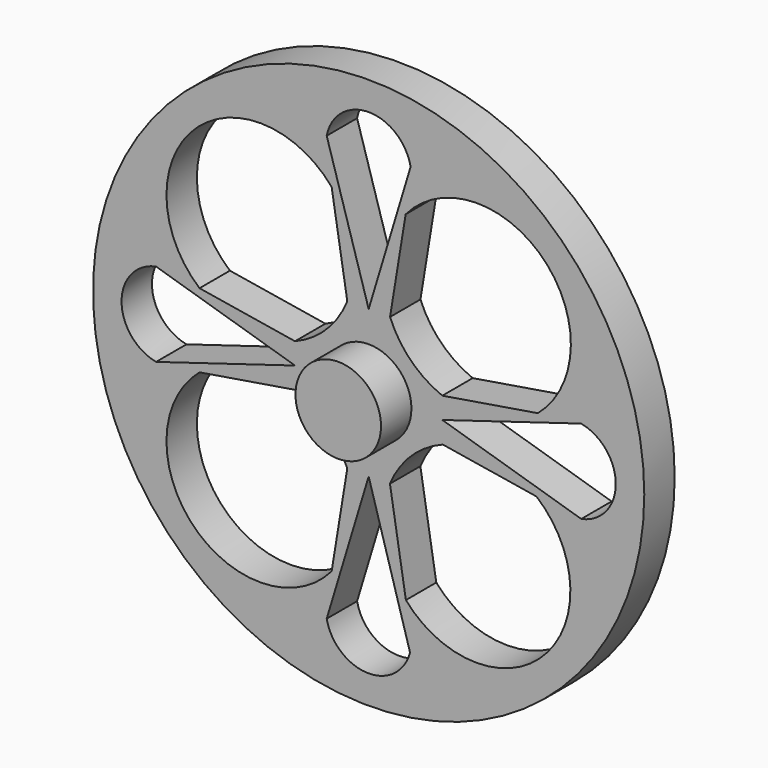
from build123d import *

# Parameters (mm, degrees)
F0_R     = 4.5
F1_DEPTH = 8
F0_R_2   = 29
F0_R_3   = 27
F2_DEPTH = 4
F3_DEPTH = 2


with BuildPart() as f1:
    # F0 (on Front) → F1 (new body)
    with BuildSketch(Plane.XZ):
        Circle(F0_R)
    extrude(amount=F1_DEPTH)

    # F0 (on Front) → F2 (join)
    with BuildSketch(Plane.XZ):
        Circle(F0_R_2)
        Circle(F0_R_3, mode=Mode.SUBTRACT)
        Circle(F0_R_3)
        with BuildLine():
            ThreePointArc((4.3516162867, -22.646052221), (-0.1431680004, -25.9977219705), (-4.4156935051, -22.3669780097))
            Line((-4.4156935051, -22.3669780097), (0, -7.75))
            Line((0, -7.75), (4.3516162867, -22.646052221))
        make_face(mode=Mode.SUBTRACT)
        with BuildLine():
            ThreePointArc((-3.8942970998, -17.7984822768), (-18.3847763109, -18.3847763109), (-17.7984822768, -3.8942970998))
            Line((-17.7984822768, -3.8942970998), (-7.75, -2.25))
            ThreePointArc((-7.75, -2.25), (-4.4349924254, -4.4349924254), (-2.25, -7.75))
            Line((-2.25, -7.75), (-3.8942970998, -17.7984822768))
        make_face(mode=Mode.SUBTRACT)
        with BuildLine():
            Line((3.9160785154, -17.9315909272), (2.241457342, -7.6977948676))
            ThreePointArc((2.241457342, -7.6977948676), (4.4638924206, -4.4067558), (7.8040467228, -2.2588440092))
            Line((7.8040467228, -2.2588440092), (17.6630391225, -3.8721336746))
            ThreePointArc((17.6630391225, -3.8721336746), (18.4127954662, -18.3556588455), (3.9160785154, -17.9315909272))
        make_face(mode=Mode.SUBTRACT)
        with BuildLine():
            ThreePointArc((-22.3669780097, -4.4156935051), (-26, 0), (-22.3669780097, 4.4156935051))
            Line((-22.3669780097, 4.4156935051), (-7.75, 0))
            Line((-7.75, 0), (-22.3669780097, -4.4156935051))
        make_face(mode=Mode.SUBTRACT)
        with BuildLine():
            Line((-7.75, 2.25), (-17.7984822768, 3.8942970998))
            ThreePointArc((-17.7984822768, 3.8942970998), (-18.3847763109, 18.3847763109), (-3.8942970998, 17.7984822768))
            Line((-3.8942970998, 17.7984822768), (-2.25, 7.75))
            ThreePointArc((-2.25, 7.75), (-4.4349924254, 4.4349924254), (-7.75, 2.25))
        make_face(mode=Mode.SUBTRACT)
        Circle(F0_R, mode=Mode.SUBTRACT)
        with BuildLine():
            Line((17.7984822768, 3.8942970998), (7.75, 2.25))
            ThreePointArc((7.75, 2.25), (4.4349924254, 4.4349924254), (2.25, 7.75))
            Line((2.25, 7.75), (3.8942970998, 17.7984822768))
            ThreePointArc((3.8942970998, 17.7984822768), (18.3847763109, 18.3847763109), (17.7984822768, 3.8942970998))
        make_face(mode=Mode.SUBTRACT)
        with BuildLine():
            ThreePointArc((22.3669780097, 4.4156935051), (26, 0), (22.3669780097, -4.4156935051))
            Line((22.3669780097, -4.4156935051), (7.75, 0))
            Line((7.75, 0), (14.262410288, 1.9673565762))
            Line((14.262410288, 1.9673565762), (22.3669780097, 4.4156935051))
        make_face(mode=Mode.SUBTRACT)
        with BuildLine():
            ThreePointArc((-4.4156935051, 22.3669780097), (0, 26), (4.4156935051, 22.3669780097))
            Line((4.4156935051, 22.3669780097), (0, 7.75))
            Line((0, 7.75), (-4.4156935051, 22.3669780097))
        make_face(mode=Mode.SUBTRACT)
    extrude(amount=F2_DEPTH)

    # F0 (on Front) → F3 (cut)
    with BuildSketch(Plane.XZ):
        Circle(F0_R)
    extrude(amount=F3_DEPTH, mode=Mode.SUBTRACT)


solid = f1.part
